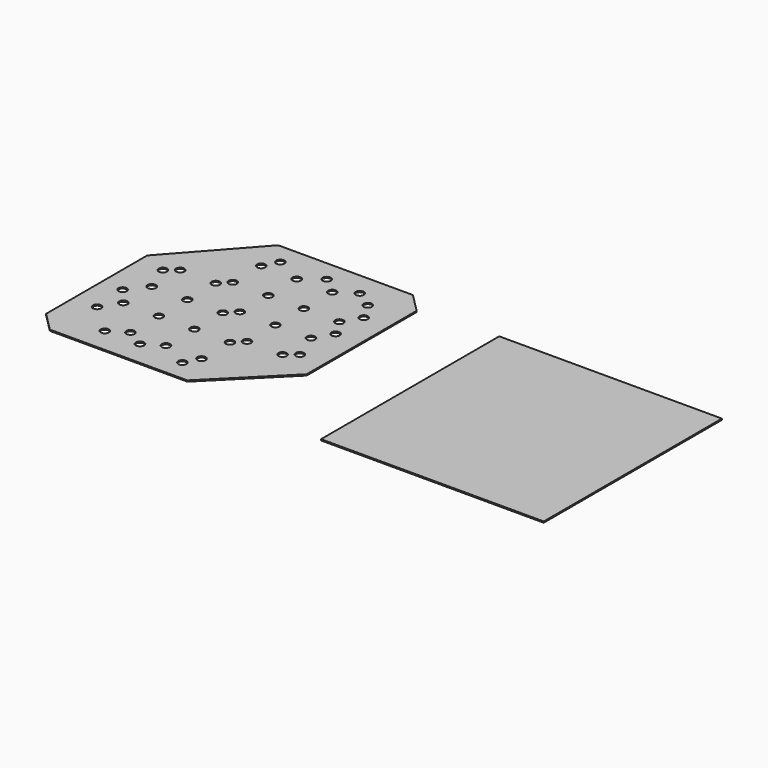
from build123d import *

# Parameters (mm, degrees)
F0_W     = 94
F0_H     = 94
F2_DEPTH = 0.5
F1_R     = 1.75
F3_DEPTH = 0.5
F1_W     = 94
F1_H     = 94
F4_DEPTH = 25


with BuildPart() as f2:
    # F0 (on Top) → F2 (new body)
    with BuildSketch(Plane.XY):
        with Locations((-81.8690434098, -19.5789383724)):
            Rectangle(F0_W, F0_H)
    extrude(amount=F2_DEPTH)


with BuildPart() as f3:
    # F1 (on Top) → F3 (new body)
    with BuildSketch(Plane.XY):
        Polygon((-247.5025829284, 32.6695491735), (-255.5025829284, 24.6695491735), (-255.5025829284, 0), (-226.3520359993, 32.6695491735), align=None)
        Polygon((-226.3520359993, 32.6695491735), (-255.5025829284, 0), (-255.5025829284, -53.3304508265), (-247.5025829284, -61.3304508265), (-189.4696205854, -61.3304508265), (-161.5025829284, -33.3634131696), (-161.5025829284, 24.6695491735), (-169.5025829284, 32.6695491735), align=None)
        with Locations((-232.7720262616, -50.7774024841)):
            Circle(F1_R, mode=Mode.SUBTRACT)
        with Locations((-217.920325747, -50.7774024841)):
            Circle(F1_R, mode=Mode.SUBTRACT)
        with Locations((-225.5025829284, -46.3304508265)):
            Circle(F1_R, mode=Mode.SUBTRACT)
        with Locations((-210.5025829284, -46.3304508265)):
            Circle(F1_R, mode=Mode.SUBTRACT)
        with Locations((-198.7015337584, -52.4083041071)):
            Circle(F1_R, mode=Mode.SUBTRACT)
        with Locations((-195.5025829284, -46.3304508265)):
            Circle(F1_R, mode=Mode.SUBTRACT)
        with Locations((-245.5000911592, -38.9438550675)):
            Circle(F1_R, mode=Mode.SUBTRACT)
        with Locations((-240.5025829284, -31.3304508265)):
            Circle(F1_R, mode=Mode.SUBTRACT)
        with Locations((-225.5025829284, -31.3304508265)):
            Circle(F1_R, mode=Mode.SUBTRACT)
        with Locations((-210.5025829284, -31.3304508265)):
            Circle(F1_R, mode=Mode.SUBTRACT)
        with Locations((-246.580436209, -24.1314999966)):
            Circle(F1_R, mode=Mode.SUBTRACT)
        with Locations((-195.5025829284, -31.3304508265)):
            Circle(F1_R, mode=Mode.SUBTRACT)
        with Locations((-191.5025829284, -27.3304508265)):
            Circle(F1_R, mode=Mode.SUBTRACT)
        with Locations((-176.5025829284, -27.3304508265)):
            Circle(F1_R, mode=Mode.SUBTRACT)
        with Locations((-172.0556312709, -23.7481936451)):
            Circle(F1_R, mode=Mode.SUBTRACT)
        with Locations((-240.5025829284, -16.3304508265)):
            Circle(F1_R, mode=Mode.SUBTRACT)
        with Locations((-244.949534586, -4.912708008)):
            Circle(F1_R, mode=Mode.SUBTRACT)
        with Locations((-225.5025829284, -16.3304508265)):
            Circle(F1_R, mode=Mode.SUBTRACT)
        with Locations((-210.5025829284, -16.3304508265)):
            Circle(F1_R, mode=Mode.SUBTRACT)
        with Locations((-206.5025829284, -12.3304508265)):
            Circle(F1_R, mode=Mode.SUBTRACT)
        with Locations((-240.5025829284, -1.3304508265)):
            Circle(F1_R, mode=Mode.SUBTRACT)
        with Locations((-225.5025829284, -1.3304508265)):
            Circle(F1_R, mode=Mode.SUBTRACT)
        with Locations((-221.5025829284, 2.6695491735)):
            Circle(F1_R, mode=Mode.SUBTRACT)
        with Locations((-206.5025829284, 2.6695491735)):
            Circle(F1_R, mode=Mode.SUBTRACT)
        with Locations((-191.5025829284, -12.3304508265)):
            Circle(F1_R, mode=Mode.SUBTRACT)
        with Locations((-176.5025829284, -12.3304508265)):
            Circle(F1_R, mode=Mode.SUBTRACT)
        with Locations((-172.0556312709, -4.912708008)):
            Circle(F1_R, mode=Mode.SUBTRACT)
        with Locations((-191.5025829284, 2.6695491735)):
            Circle(F1_R, mode=Mode.SUBTRACT)
        with Locations((-176.5025829284, 2.6695491735)):
            Circle(F1_R, mode=Mode.SUBTRACT)
        with Locations((-221.5025829284, 17.6695491735)):
            Circle(F1_R, mode=Mode.SUBTRACT)
        with Locations((-206.5025829284, 17.6695491735)):
            Circle(F1_R, mode=Mode.SUBTRACT)
        with Locations((-218.3036320985, 23.747402454)):
            Circle(F1_R, mode=Mode.SUBTRACT)
        with Locations((-191.5025829284, 17.6695491735)):
            Circle(F1_R, mode=Mode.SUBTRACT)
        with Locations((-176.5025829284, 17.6695491735)):
            Circle(F1_R, mode=Mode.SUBTRACT)
        with Locations((-172.0556312709, 9.9389925066)):
            Circle(F1_R, mode=Mode.SUBTRACT)
        with Locations((-198.7015337584, 23.747402454)):
            Circle(F1_R, mode=Mode.SUBTRACT)
        with Locations((-183.8891786875, 22.6670574042)):
            Circle(F1_R, mode=Mode.SUBTRACT)
        Polygon((-161.5025829284, -33.3634131696), (-189.4696205854, -61.3304508265), (-169.5025829284, -61.3304508265), (-161.5025829284, -53.3304508265), align=None)
    extrude(amount=F3_DEPTH)

    # F1 (on Top) → F4 (cut)
    with BuildSketch(Plane.XY):
        Polygon((-161.5025829284, -33.3634131696), (-189.4696205854, -61.3304508265), (-169.5025829284, -61.3304508265), (-161.5025829284, -53.3304508265), align=None)
        Polygon((-247.5025829284, 32.6695491735), (-255.5025829284, 24.6695491735), (-255.5025829284, 0), (-226.3520359993, 32.6695491735), align=None)
    extrude(amount=F4_DEPTH, mode=Mode.SUBTRACT)


with BuildPart() as f3b:
    # F1 (on Top) → F3, piece 2 (new body)
    with BuildSketch(Plane.XY):
        with Locations((-81.8690434098, -19.5789383724)):
            Rectangle(F1_W, F1_H)
    extrude(amount=F3_DEPTH)


with BuildPart() as f3c:
    # F0 (on Top) → F3, piece 3 (new body)
    with BuildSketch(Plane.XY):
        with Locations((-81.8690434098, -19.5789383724)):
            Rectangle(F0_W, F0_H)
    extrude(amount=F3_DEPTH)


solid = Compound([f2.part, f3.part, f3b.part, f3c.part])
